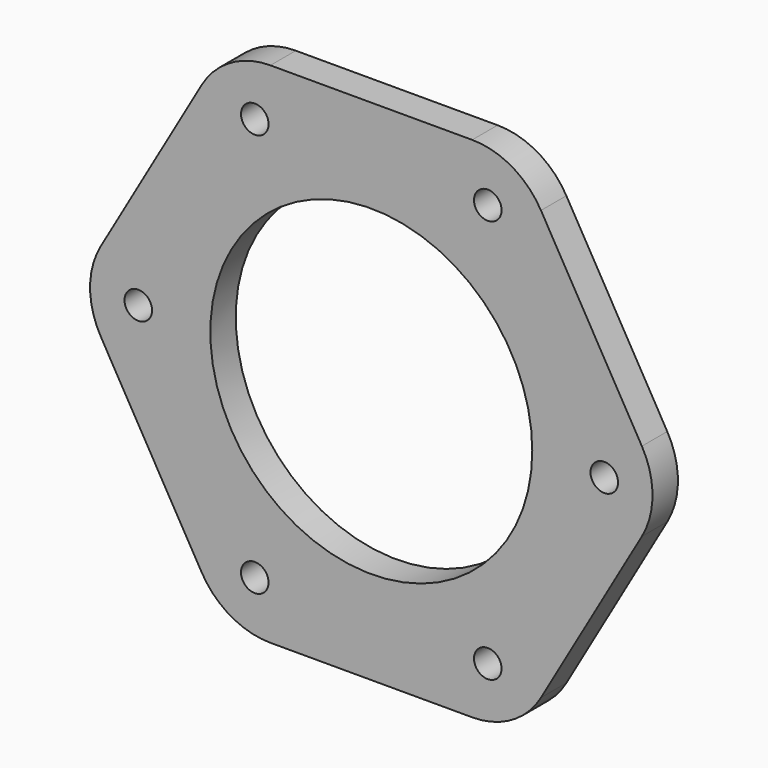
from build123d import *

# Parameters (mm, degrees)
F0_R     = 2.6
F0_R_2   = 30.4
F1_DEPTH = 6
F2_R     = 15


with BuildPart() as f1:
    # F0 (on Front) → F1 (new body)
    with BuildSketch(Plane.XZ):
        Polygon((27.712813, 48), (-27.712813, 48), (-55.425626, 0), (-27.712813, -48), (27.712813, -48), (55.425626, 0), align=None)
        with Locations((-22, -38.105118)):
            Circle(F0_R, mode=Mode.SUBTRACT)
        with Locations((-44, 0)):
            Circle(F0_R, mode=Mode.SUBTRACT)
        Circle(F0_R_2, mode=Mode.SUBTRACT)
        with Locations((22, -38.105118)):
            Circle(F0_R, mode=Mode.SUBTRACT)
        with Locations((44, 0)):
            Circle(F0_R, mode=Mode.SUBTRACT)
        with Locations((-22, 38.105118)):
            Circle(F0_R, mode=Mode.SUBTRACT)
        with Locations((22, 38.105118)):
            Circle(F0_R, mode=Mode.SUBTRACT)
    extrude(amount=F1_DEPTH)

    # F2
    f2_edges = [f1.edges().sort_by_distance(p)[0] for p in [
        (-27.712813, -3, 48),
        (-55.425626, -3, 0),
        (-27.712813, -3, -48),
        (27.712813, -3, -48),
        (55.425626, -3, 0),
        (27.712813, -3, 48),
    ]]
    fillet(f2_edges, radius=F2_R)


solid = f1.part
